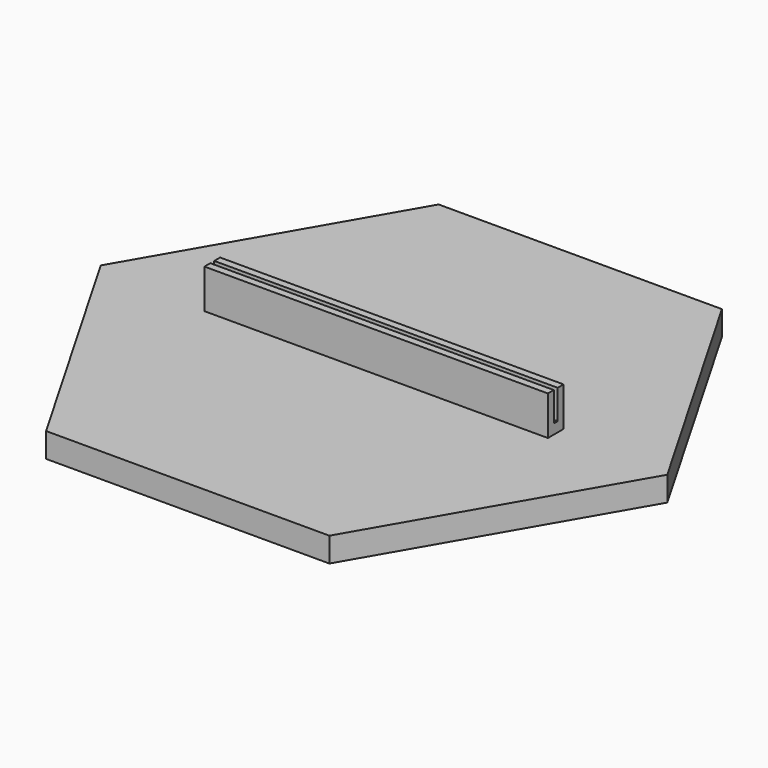
from build123d import *

# Parameters (mm, degrees)
F1_DEPTH = 2.5
F2_W     = 35
F2_H     = 2
F3_DEPTH = 4
F4_W     = 50
F4_H     = 0.5
F5_DEPTH = 3


with BuildPart() as f1:
    # F0 (on Top) → F1 (new body)
    with BuildSketch(Plane.XY):
        Polygon((-14.433757, -25), (14.433757, -25), (28.867513, 0), (14.433757, 25), (-14.433757, 25), (-28.867513, 0), align=None)
    extrude(amount=F1_DEPTH)

    # F2 (on face) → F3 (join)
    with BuildSketch(Plane.XY.offset(2.5)):
        Rectangle(F2_W, F2_H)
    extrude(amount=F3_DEPTH)

    # F4 (on face) → F5 (cut)
    with BuildSketch(Plane.XY.offset(6.5)):
        with Locations((0.279709, 0)):
            Rectangle(F4_W, F4_H)
    extrude(amount=-F5_DEPTH, mode=Mode.SUBTRACT)


solid = f1.part
